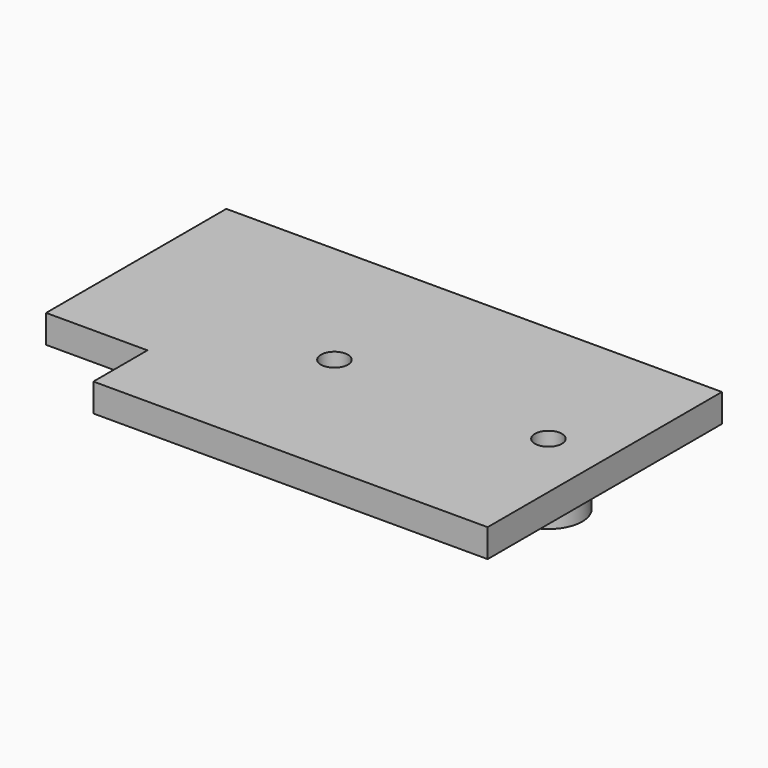
from build123d import *

# Parameters (mm, degrees)
F0_W      = 35
F0_H      = 26
F0_R      = 1.2
F1_DEPTH  = 2.5
F2_R      = 3
F3_DEPTH  = 3
F3_FACE_R = 1.2
F4_DEPTH  = 25
F5_DEPTH  = 25
F6_W      = 20
F6_H      = 2.5
F7_DEPTH  = 9


with BuildPart() as f1:
    # F0 (on Top) → F1 (new body)
    with BuildSketch(Plane.XY):
        with Locations((2.61107, 5.940669)):
            Rectangle(F0_W, F0_H)
        with Locations((-3.88893, 5.940669)):
            Circle(F0_R, mode=Mode.SUBTRACT)
        with Locations((15.11107, 5.940669)):
            Circle(F0_R, mode=Mode.SUBTRACT)
    extrude(amount=F1_DEPTH)

    # F2 (on face) → F3 (join)
    with BuildSketch(Plane(origin=(0, 0, 0), x_dir=(1, 0, 0), z_dir=(0, 0, -1))):
        with Locations((-3.88893, -5.940669)):
            Circle(F2_R)
        with Locations((15.11107, -5.940669)):
            Circle(F2_R)
    extrude(amount=F3_DEPTH)

    # F3_face (on face) → F4 (cut)
    with BuildSketch(Plane(origin=(-3.88893, 5.940669, 0), x_dir=(1, 0, 0), z_dir=(0, 0, 1))):
        Circle(F3_FACE_R)
    extrude(amount=-F4_DEPTH, mode=Mode.SUBTRACT)

    # F3_face (on face) → F5 (cut)
    with BuildSketch(Plane(origin=(-3.88893, 5.940669, 0), x_dir=(1, 0, 0), z_dir=(0, 0, 1))):
        with Locations((19, 0)):
            Circle(F3_FACE_R)
    extrude(amount=-F5_DEPTH, mode=Mode.SUBTRACT)

    # F6 (on face) → F7 (join)
    with BuildSketch(Plane(origin=(-14.88893, 0, 0), x_dir=(0, -1, 0), z_dir=(-1, 0, 0))):
        with Locations((-8.940669, 1.25)):
            Rectangle(F6_W, F6_H)
    extrude(amount=F7_DEPTH)


solid = f1.part
